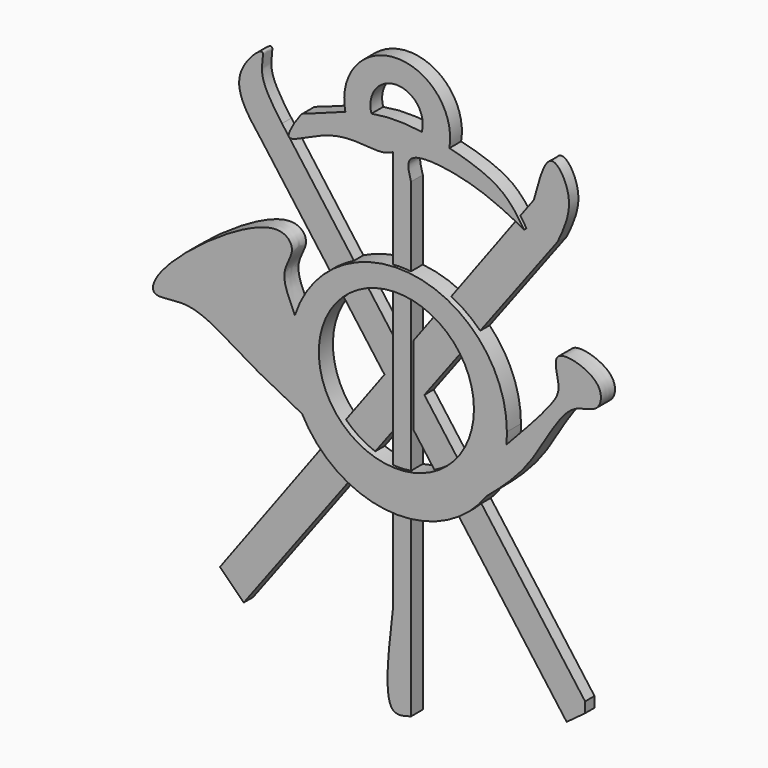
from build123d import *

# Parameters (mm, degrees)
F2_R     = 13.2054688854
F3_DEPTH = 3
F4_DEPTH = 2.5
F5_DEPTH = 2


with BuildPart() as f3:
    # F2 (on Front) → F3 (new body)
    with BuildSketch(Plane.XZ):
        with BuildLine():
            ThreePointArc((-15.3847838296, -3.2399003873), (-15.3050425825, -2.2508206772), (-15.2784366634, -1.2588884898))
            ThreePointArc((-15.2784366634, -1.2588884898), (-30.8767703261, 17.015638484), (-51.3740349167, 4.4805479987))
            ThreePointArc((-51.3740349167, 4.4805479987), (-52.2194307534, -2.834605339), (-50.1449770124, -9.9002124716))
            ThreePointArc((-50.1449770124, -9.9002124716), (-35.0141463386, -19.7219591321), (-18.7128326092, -11.9969403594))
            ThreePointArc((-18.7128326092, -11.9969403594), (-16.485453054, -7.8325193699), (-15.3847838296, -3.2399003873))
        make_face()
        with Locations((-34.0911123708, 0.3098506963)):
            Circle(F2_R, mode=Mode.SUBTRACT)
        with BuildLine():
            ThreePointArc((-50.1449770124, -9.9002124716), (-52.2194307534, -2.834605339), (-51.3740349167, 4.4805479987))
            add(Edge.make_bspline(
                [(-51.3740349167, 4.4805479987), (-52.3680547399, 6.5707496239), (-54.201893936, 10.3325248331), (-50.8974635563, 14.0738410253), (-55.1878979063, 19.1858420251), (-74.6719274842, 5.3423351664), (-76.3108787052, -1.1834532248), (-68.9834514087, 1.2775717516), (-60.1666380235, -4.9030181438), (-53.5124329283, -8.2013382011), (-50.1449770124, -9.9002124716)],
                knots=[0, 0, 0, 0, 0.1124623919, 0.2021501547, 0.2873009958, 0.5039131078, 0.5952703485, 0.6992450068, 0.8467700016, 1, 1, 1, 1], degree=3))
        make_face()
        with BuildLine():
            add(Edge.make_bspline(
                [(-15.3847838296, -3.2399003873), (-12.1719558701, 0.1853894612), (-7.2671621875, 5.3854653101), (-6.0348582593, 8.4847210704), (-8.36554664, 14.6689277097), (1.4139252217, 11.9803145188), (0.5920460484, 6.2760583223), (-5.2745535706, 7.0360930413), (-10.7438932887, -5.1693428817), (-16.1087188532, -9.7696303201), (-18.7128326092, -11.9969403594)],
                knots=[0, 0, 0, 0, 0.1674051345, 0.2544905308, 0.3516668293, 0.4776226585, 0.5709866186, 0.6715729885, 0.8407656595, 1, 1, 1, 1], degree=3))
            ThreePointArc((-15.3847838296, -3.2399003873), (-16.485453054, -7.8325193699), (-18.7128326092, -11.9969403594))
        make_face()
    extrude(amount=F3_DEPTH)

    # F1 (on Front) → F4 (join)
    with BuildSketch(Plane.XZ):
        with BuildLine():
            add(Edge.make_bspline(
                [(-31.9970436394, 30.5991135538), (-32.3872090202, 31.9458048547), (-33.4325325608, 35.5538341366), (-21.2760052018, 34.1273260291), (-15.6210464463, 31.173689107), (-12.7366865054, 29.6671614051)],
                knots=[0, 0, 0, 0, 0.225870856, 0.605148828, 1, 1, 1, 1], degree=3))
            add(Edge.make_bspline(
                [(-12.7366865054, 29.6671614051), (-13.8533425769, 31.3448666791), (-16.3446972796, 35.0879698878), (-22.2631929118, 36.9726268905), (-25.4733730108, 37.7440862358)],
                knots=[0, 0, 0, 0, 0.101977758, 0.2275210545, 0.2275210545, 0.2275210545, 0.2275210545], degree=3))
            add(Edge.make_bspline(
                [(-25.4733730108, 37.7440862358), (-27.0587452883, 38.1250774019), (-28.6305637098, 38.4405897044), (-30.168247991, 38.6585758672)],
                knots=[0.2275210545, 0.2275210545, 0.2275210545, 0.2275210545, 0.2895215828, 0.2895215828, 0.2895215828, 0.2895215828], degree=3))
            add(Edge.make_bspline(
                [(-30.168247991, 38.6585758672), (-31.7535999845, 38.8833195302), (-34.6951536522, 39.1132352224), (-37.4245462352, 38.8426991605), (-38.7372592587, 38.6038438549)],
                knots=[0.2895215828, 0.2895215828, 0.2895215828, 0.2895215828, 0.3534441073, 0.4109051789, 0.4109051789, 0.4109051789, 0.4109051789], degree=3))
            add(Edge.make_bspline(
                [(-38.7372592587, 38.6038438549), (-40.1646710441, 38.344118483), (-41.6165130459, 37.9533992382), (-43.1804768741, 37.4334342778)],
                knots=[0.4109051789, 0.4109051789, 0.4109051789, 0.4109051789, 0.4733869319, 0.4733869319, 0.4733869319, 0.4733869319], degree=3))
            add(Edge.make_bspline(
                [(-43.1804768741, 37.4334342778), (-45.9525198153, 36.5118239616), (-50.0424034446, 34.7738525116), (-50.5940634003, 34.9872243163), (-55.3019640415, 27.835264471), (-45.1680315511, 34.7495162478), (-37.5018395372, 32.9025333544), (-35.7143523525, 33.732624403), (-35.1035520434, 34.0162739158)],
                knots=[0.4733869319, 0.4733869319, 0.4733869319, 0.4733869319, 0.5841325253, 0.6183599816, 0.7063119286, 0.8192642394, 0.9382409791, 1, 1, 1, 1], degree=3))
            Line((-35.1035520434, 34.0162739158), (-35.1035520434, -34.6375741065))
            add(Edge.make_bspline(
                [(-31.9970436394, -49.5488196611), (-33.1948056541, -49.9043118485), (-37.0167332234, -51.0386485322), (-35.8823965398, -41.3143523875), (-35.1035520434, -34.6375741065)],
                knots=[0, 0, 0, 0, 0.3133921282, 1, 1, 1, 1], degree=3))
            add(Edge.make_bspline(
                [(-31.9970436394, -36.1908301711), (-31.9970436394, -40.6434933345), (-31.9970436394, -45.0961564978), (-31.9970436394, -49.5488196611)],
                knots=[0, 0, 0, 0, 13.35798949, 13.35798949, 13.35798949, 13.35798949], degree=3))
            Line((-31.9970436394, -36.1908301711), (-31.9970436394, 30.5991135538))
        make_face()
        with BuildLine():
            add(Edge.make_bspline(
                [(-25.4733730108, 37.7440862358), (-27.0587452883, 38.1250774019), (-28.6305637098, 38.4405897044), (-30.168247991, 38.6585758672)],
                knots=[0.2275210545, 0.2275210545, 0.2275210545, 0.2275210545, 0.2895215828, 0.2895215828, 0.2895215828, 0.2895215828], degree=3))
            ThreePointArc((-25.4733730108, 37.7440862358), (-34.515075129, 48.3132859169), (-43.1804768741, 37.4334342778))
            add(Edge.make_bspline(
                [(-38.7372592587, 38.6038438549), (-40.1646710441, 38.344118483), (-41.6165130459, 37.9533992382), (-43.1804768741, 37.4334342778)],
                knots=[0.4109051789, 0.4109051789, 0.4109051789, 0.4109051789, 0.4733869319, 0.4733869319, 0.4733869319, 0.4733869319], degree=3))
            ThreePointArc((-38.7372592587, 38.6038438549), (-34.4890197852, 44.3091508698), (-30.168247991, 38.6585758672))
        make_face()
    extrude(amount=F4_DEPTH)

    # F0 (on Front) → F5 (join)
    with BuildSketch(Plane.XZ):
        Polygon((-33.230617407, -5.1100547731), (-5.9023667127, -42.0931950212), (-2.7576516778, -39.7694453272), (-2.7576516778, -37.9966892899), (-30.1262800922, -0.9589061414), align=None)
        Polygon((-36.9203393813, -0.1167785192), (-33.230617407, -5.1100547731), (-30.1262800922, -0.9589061414), (-33.8359969982, 4.0614291208), align=None)
        Polygon((-60.8875751495, -42.0931950212), (-33.230617407, -5.1100547731), (-36.9203393813, -0.1167785192), (-64.9260431528, -38.0547344685), align=None)
        with BuildLine():
            Line((-33.8359969982, 4.0614291208), (-30.1262800922, -0.9589061414))
            Line((-30.1262800922, -0.9589061414), (-7.4556209147, 29.3565094471))
            add(Edge.make_bspline(
                [(-11.49408333, 34.3269258738), (-10.5964713752, 37.7180137795), (-8.9539465952, 43.9233076002), (-4.2521811974, 36.1974213174), (-6.319739343, 31.7821726132), (-7.4556209147, 29.3565094471)],
                knots=[0, 0, 0, 0, 0.3519070237, 0.6439486502, 1, 1, 1, 1], degree=3))
            Line((-11.49408333, 34.3269258738), (-33.8359969982, 4.0614291208))
        make_face()
        with BuildLine():
            Line((-57.7810667455, 28.1139053404), (-36.9203393813, -0.1167785192))
            Line((-36.9203393813, -0.1167785192), (-33.8359969982, 4.0614291208))
            Line((-33.8359969982, 4.0614291208), (-54.3639101088, 31.8417176604))
            add(Edge.make_bspline(
                [(-57.7810667455, 28.1139053404), (-60.0299623158, 30.9709012269), (-64.0646834867, 36.0966091256), (-56.6608437254, 43.3088429394), (-58.6564028855, 37.827560645), (-56.0117641759, 34.1396354952), (-54.3639101088, 31.8417176604)],
                knots=[0, 0, 0, 0, 0.3090040546, 0.5543811004, 0.7223382863, 1, 1, 1, 1], degree=3))
        make_face()
    extrude(amount=F5_DEPTH)


solid = f3.part
